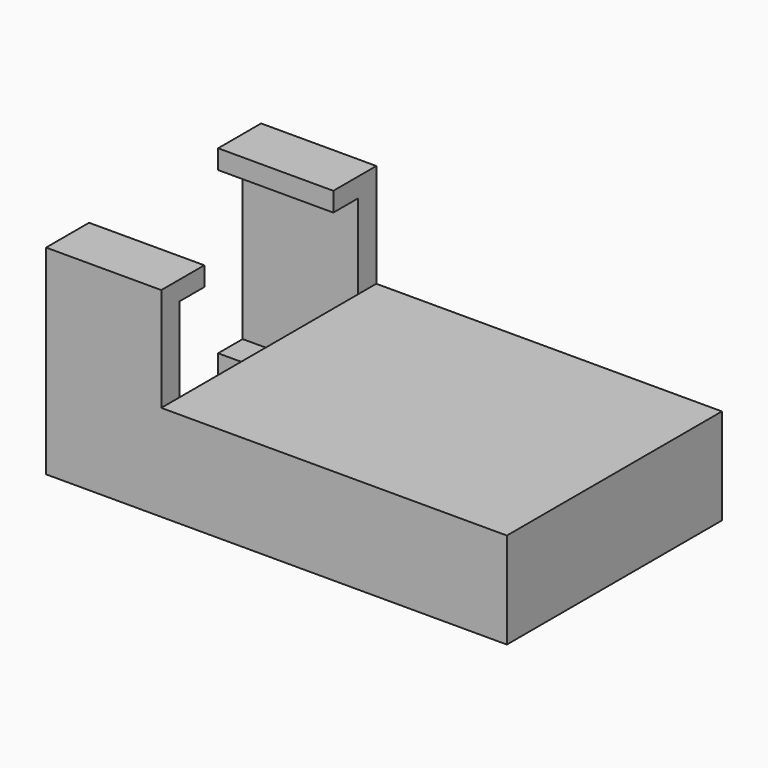
from build123d import *

# Parameters (mm, degrees)
F0_W     = 76.2
F0_H     = 44.45
F1_DEPTH = 33.02
F2_W     = 57.15
F2_H     = 44.45
F3_DEPTH = 17.145
F4_W     = 26.67
F4_H     = 3.175
F5_DEPTH = 19.05
F6_W     = 34.29
F6_H     = 12.7
F7_DEPTH = 10.16


with BuildPart() as f1:
    # F0 (on Top) → F1 (new body)
    with BuildSketch(Plane.XY):
        with Locations((38.1, 22.225)):
            Rectangle(F0_W, F0_H)
    extrude(amount=F1_DEPTH)

    # F2 (on face) → F3 (cut)
    with BuildSketch(Plane.XY.offset(33.02)):
        with Locations((47.625, 22.225)):
            Rectangle(F2_W, F2_H)
    extrude(amount=-F3_DEPTH, mode=Mode.SUBTRACT)

    # F4 (on face) → F5 (cut)
    with BuildSketch(Plane(origin=(0, 0, 0), x_dir=(0, -1, 0), z_dir=(-1, 0, 0))):
        Polygon((-35.56, 29.845), (-40.64, 29.845), (-40.64, 3.175), (-35.56, 3.175), (-8.89, 3.175), (-3.81, 3.175), (-3.81, 29.845), (-8.89, 29.845), align=None)
        with Locations((-22.225, 31.4325)):
            Rectangle(F4_W, F4_H)
        with Locations((-22.225, 1.5875)):
            Rectangle(F4_W, F4_H)
    extrude(amount=-F5_DEPTH, mode=Mode.SUBTRACT)

    # F6 (on face) → F7 (cut)
    with BuildSketch(Plane(origin=(0, 0, 0), x_dir=(1, 0, 0), z_dir=(0, 0, -1))):
        with BuildLine():
            ThreePointArc((53.34, -28.575), (59.69, -22.225), (53.34, -15.875))
            Line((53.34, -15.875), (53.34, -28.575))
        make_face()
        with Locations((36.195, -22.225)):
            Rectangle(F6_W, F6_H)
    extrude(amount=-F7_DEPTH, mode=Mode.SUBTRACT)


solid = f1.part
